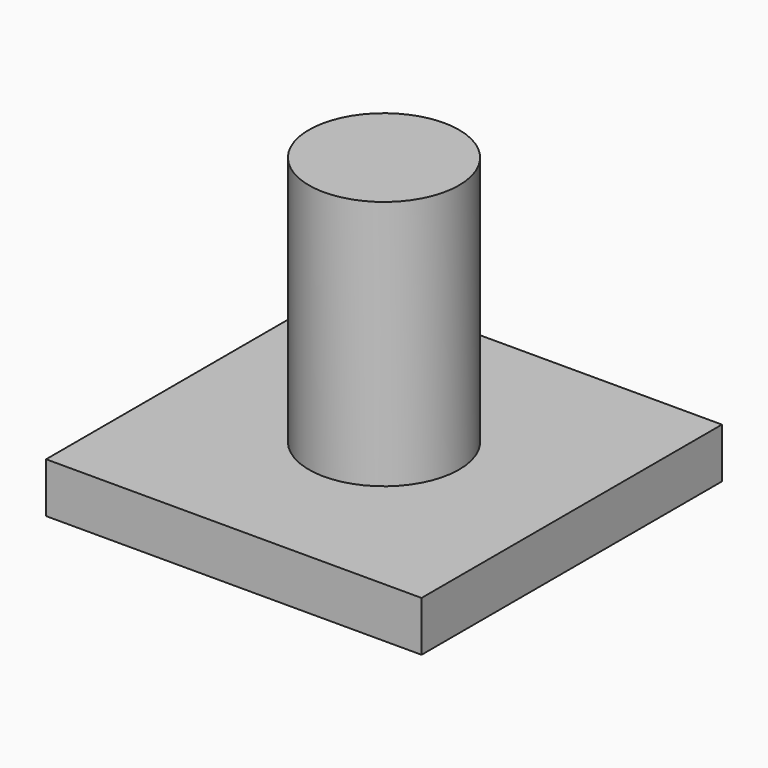
from build123d import *

# Parameters (mm, degrees)
SKETCH_W     = 75
SKETCH_H     = 75
PAD_DEPTH    = 10
SKETCH001_R  = 15
PAD001_DEPTH = 50


with BuildPart() as part:
    # Sketch → Pad (new body)
    with BuildSketch(Plane.XY):
        Rectangle(SKETCH_W, SKETCH_H)
    extrude(amount=PAD_DEPTH)

    # Sketch001 (on Face6 of Pad) → Pad001 (join)
    with BuildSketch(Plane.XY.offset(10)):
        Circle(SKETCH001_R)
    extrude(amount=PAD001_DEPTH)


solid = part.part
